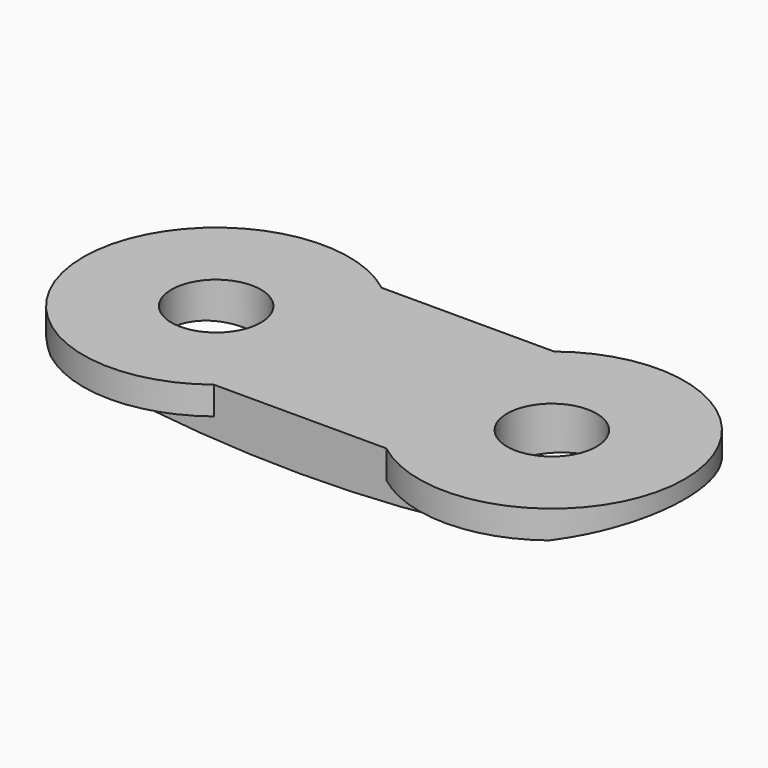
from build123d import *

# Parameters (mm, degrees)
CYLINDER022_R          = 1.6
CYLINDER022_DEPTH      = 10
CYLINDER021_R          = 1.6
CYLINDER021_DEPTH      = 10
CYLINDER020_R          = 50
CYLINDER020_DEPTH      = 7.5
CYLINDER020_ROLL_ANGLE = 90
CYLINDER019_R          = 51
CYLINDER019_DEPTH      = 7.5
CYLINDER019_ROLL_ANGLE = 90
BOX022_W               = 317
BOX022_H               = 10
BOX022_DEPTH           = 300
CYLINDER018_R          = 50
CYLINDER018_DEPTH      = 7.5
CYLINDER018_ROLL_ANGLE = 90
CYLINDER017_R          = 4.75
CYLINDER017_DEPTH      = 1
CYLINDER016_R          = 4.75
CYLINDER016_DEPTH      = 1
BOX021_W               = 12
BOX021_H               = 7.5
BOX021_DEPTH           = 1


with BuildPart() as cylinder022:
    # Cylinder022 → Cylinder022 (new body)
    with BuildSketch(Plane(origin=(0, -18, -9.2), x_dir=(1, 0, 0), z_dir=(0, 0, 1))):
        Circle(CYLINDER022_R)
    extrude(amount=CYLINDER022_DEPTH)


with BuildPart() as fusion015:
    # Cylinder021 → Cylinder021 (new body)
    with BuildSketch(Plane(origin=(12, -18, -9.2), x_dir=(1, 0, 0), z_dir=(0, 0, 1))):
        Circle(CYLINDER021_R)
    extrude(amount=CYLINDER021_DEPTH)

    # Fusion015: union Cylinder022
    add(cylinder022.part)


with BuildPart() as fusion015_1:
    # Fusion015 placement: moved
    add(fusion015.part.moved(Location((0, 0, 5))))


with BuildPart() as cylinder020:
    # Cylinder020 → Cylinder020 (new body)
    with BuildSketch(Plane.XY):
        Circle(CYLINDER020_R)
    extrude(amount=CYLINDER020_DEPTH)


with BuildPart() as cylinder020_1:
    # Cylinder020 roll: moved
    add(cylinder020.part.rotate(Axis((0, 0, 0), (1, 0, 0)), CYLINDER020_ROLL_ANGLE))


with BuildPart() as cylinder020_2:
    # Cylinder020 placement: moved
    add(cylinder020_1.part.moved(Location((6, -14.25, 49.2))))


with BuildPart() as cut019:
    # Cylinder019 → Cylinder019 (new body)
    with BuildSketch(Plane.XY):
        Circle(CYLINDER019_R)
    extrude(amount=CYLINDER019_DEPTH)


with BuildPart() as cut019_1:
    # Cylinder019 roll: moved
    add(cut019.part.rotate(Axis((0, 0, 0), (1, 0, 0)), CYLINDER019_ROLL_ANGLE))


with BuildPart() as cut019_2:
    # Cylinder019 placement: moved
    add(cut019_1.part.moved(Location((6, -14.25, 49.2))))

    # Cut019: cut Cylinder020
    add(cylinder020_2.part, mode=Mode.SUBTRACT)


with BuildPart() as box022:
    # Box022 → Box022 (new body)
    with BuildSketch(Plane(origin=(-150, -22, 0), x_dir=(1, 0, 0), z_dir=(0, 0, 1))):
        with Locations((158.5, 5)):
            Rectangle(BOX022_W, BOX022_H)
    extrude(amount=BOX022_DEPTH)


with BuildPart() as cut018:
    # Cylinder018 → Cylinder018 (new body)
    with BuildSketch(Plane.XY):
        Circle(CYLINDER018_R)
    extrude(amount=CYLINDER018_DEPTH)


with BuildPart() as cut018_1:
    # Cylinder018 roll: moved
    add(cut018.part.rotate(Axis((0, 0, 0), (1, 0, 0)), CYLINDER018_ROLL_ANGLE))


with BuildPart() as cut018_2:
    # Cylinder018 placement: moved
    add(cut018_1.part.moved(Location((6, -14.25, 49.2))))

    # Cut018: cut Box022
    add(box022.part, mode=Mode.SUBTRACT)


with BuildPart() as cylinder017:
    # Cylinder017 → Cylinder017 (new body)
    with BuildSketch(Plane(origin=(0, -18, 0), x_dir=(1, 0, 0), z_dir=(0, 0, 1))):
        Circle(CYLINDER017_R)
    extrude(amount=CYLINDER017_DEPTH)


with BuildPart() as cylinder016:
    # Cylinder016 → Cylinder016 (new body)
    with BuildSketch(Plane(origin=(12, -18, 0), x_dir=(1, 0, 0), z_dir=(0, 0, 1))):
        Circle(CYLINDER016_R)
    extrude(amount=CYLINDER016_DEPTH)


with BuildPart() as obj1:
    # Box021 → Box021 (new body)
    with BuildSketch(Plane(origin=(0, -21.75, 0), x_dir=(1, 0, 0), z_dir=(0, 0, 1))):
        with Locations((6, 3.75)):
            Rectangle(BOX021_W, BOX021_H)
    extrude(amount=BOX021_DEPTH)

    # Fusion014: union Cut018, Cylinder017, Cylinder016
    add(cut018_2.part)
    add(cylinder017.part)
    add(cylinder016.part)

    # Cut020: cut Cut019
    add(cut019_2.part, mode=Mode.SUBTRACT)

    # Cut021: cut Fusion015
    add(fusion015_1.part, mode=Mode.SUBTRACT)


with BuildPart() as obj1_1:
    # Cut021 placement: moved
    add(obj1.part.moved(Location((92, 63, -38))))


solid = obj1_1.part
